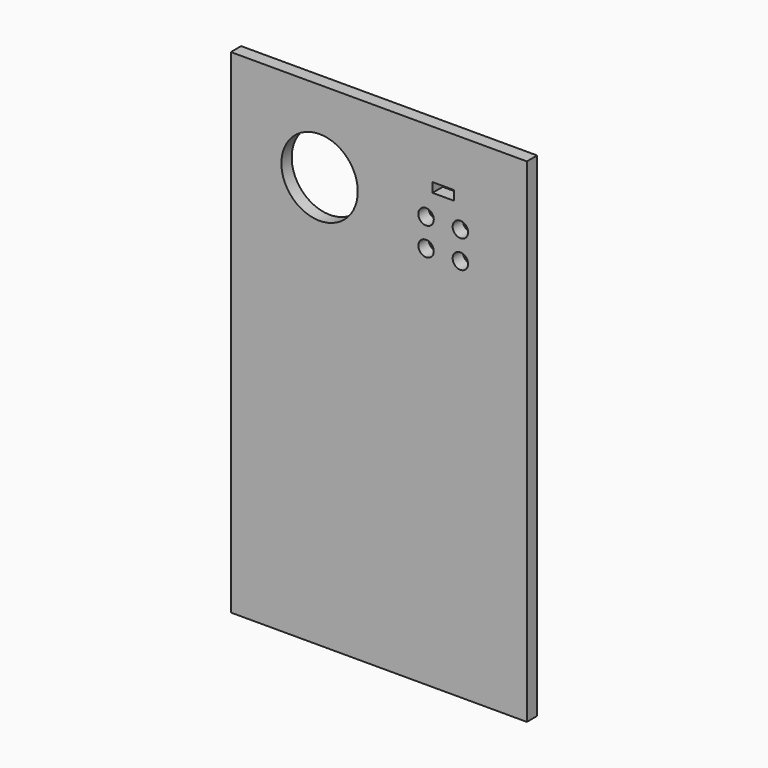
from build123d import *

# Parameters (mm, degrees)
F0_W     = 69
F0_H     = 115
F0_R     = 8.9
F0_R_2   = 1.8
F0_W_2   = 5
F0_H_2   = 2.2
F1_DEPTH = 3


with BuildPart() as f1:
    # F0 (on Front) → F1 (new body)
    with BuildSketch(Plane.XZ):
        with Locations((34.5, 57.5)):
            Rectangle(F0_W, F0_H)
        with Locations((20.685, 96)):
            Circle(F0_R, mode=Mode.SUBTRACT)
        with Locations((45.5, 89.5)):
            Circle(F0_R_2, mode=Mode.SUBTRACT)
        with Locations((45.5, 96)):
            Circle(F0_R_2, mode=Mode.SUBTRACT)
        with Locations((49.5, 102.5)):
            Rectangle(F0_W_2, F0_H_2, mode=Mode.SUBTRACT)
        with Locations((53.5, 89.5)):
            Circle(F0_R_2, mode=Mode.SUBTRACT)
        with Locations((53.5, 96)):
            Circle(F0_R_2, mode=Mode.SUBTRACT)
    extrude(amount=F1_DEPTH)


solid = f1.part
